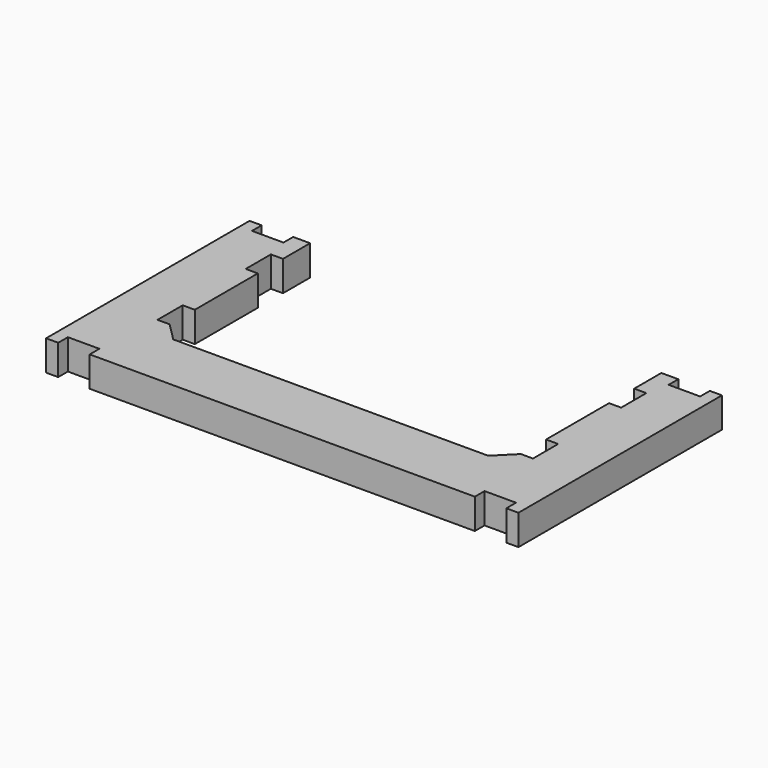
from build123d import *

# Parameters (mm, degrees)
F1_DEPTH = 2.5


with BuildPart() as f1:
    # F0 (on Top) → F1 (new body)
    with BuildSketch(Plane.XY):
        Polygon((18.5, -10.5), (19.5, -10.5), (19.5, 10.5), (18.5, 10.5), (18.5, 9.5), (15.9, 9.5), (15.9, 10.5), (14.5, 10.5), (14.5, 7.7), (15.5, 7.7), (15.5, 5.1), (14.5, 5.1), (14.5, -1.4), (15.5, -1.4), (15.5, -4), (14.5, -4), (13, -5.5), (-13, -5.5), (-14.5, -4), (-15.5, -4), (-15.5, -1.4), (-14.5, -1.4), (-14.5, 5.1), (-15.5, 5.1), (-15.5, 7.7), (-14.5, 7.7), (-14.5, 10.5), (-15.9, 10.5), (-15.9, 9.5), (-18.5, 9.5), (-18.5, 10.5), (-19.5, 10.5), (-19.5, -10.5), (-18.5, -10.5), (-18.5, -9.5), (-15.9, -9.5), (-15.9, -10.5), (15.9, -10.5), (15.9, -9.5), (18.5, -9.5), align=None)
    extrude(amount=F1_DEPTH)


solid = f1.part
